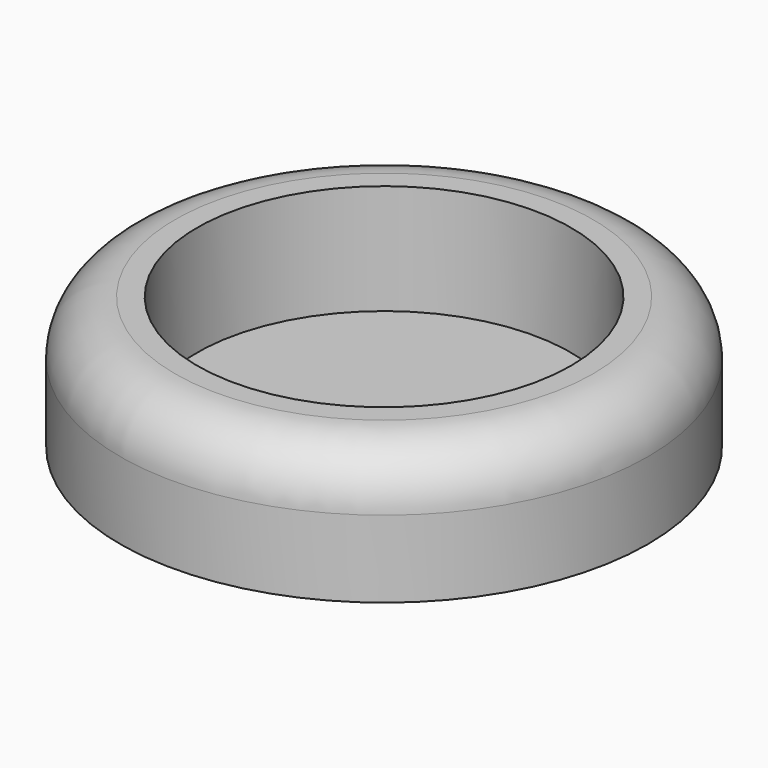
from build123d import *

# Parameters (mm, degrees)
F0_R     = 24
F1_DEPTH = 12
F2_R     = 5
F3_R     = 17
F4_DEPTH = 10


with BuildPart() as f1:
    # F0 (on Top) → F1 (new body)
    with BuildSketch(Plane.XY):
        Circle(F0_R)
    extrude(amount=F1_DEPTH)

    # F2
    f2_edges = [f1.edges().sort_by_distance(p)[0] for p in [
        (-24, 0, 12),
    ]]
    fillet(f2_edges, radius=F2_R)

    # F3 (on face) → F4 (cut)
    with BuildSketch(Plane.XY.offset(12)):
        Circle(F3_R)
    extrude(amount=-F4_DEPTH, mode=Mode.SUBTRACT)


solid = f1.part
